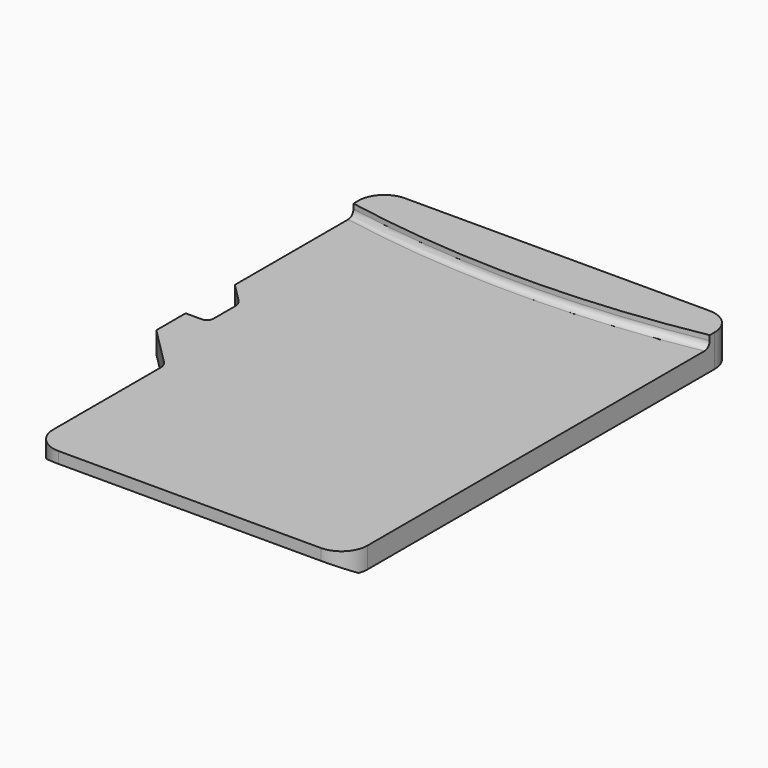
from build123d import *

# Parameters (mm, degrees)
F0_W      = 11
F0_H      = 15
F1_DEPTH  = 1
F3_DEPTH  = 0.35
F5_DEPTH  = 0.65
F6_R      = 0.2
F7_R      = 0.4
F8_R      = 0.2
F9_R      = 0.4
F11_DEPTH = 9.7
F12_R     = 0.8


with BuildPart() as f1:
    # F0 (on Top) → F1 (new body)
    with BuildSketch(Plane.XY):
        with Locations((5.5, 7.5)):
            Rectangle(F0_W, F0_H)
    extrude(amount=F1_DEPTH)

    # F2 (on face) → F3 (cut)
    with BuildSketch(Plane.XY.offset(1)):
        with BuildLine():
            Line((0, 14.0084757939), (0, 0))
            Line((0, 0), (11, 0))
            Line((11, 0), (11, 14.0084757939))
            ThreePointArc((11, 14.0084757939), (5.5, 13.5), (0, 14.0084757939))
        make_face()
    extrude(amount=-F3_DEPTH, mode=Mode.SUBTRACT)

    # F4 (on face) → F5 (cut, through all)
    with BuildSketch(Plane.XY.offset(0.65)):
        Polygon((0, 0), (1.3, 0), (1.3, 5.1), (0, 6.4), align=None)
        Polygon((0, 9.4313708499), (0, 7.5313708499), (0.7, 7.5313708499), (0.7, 8.7313708499), align=None)
    extrude(amount=-F5_DEPTH, mode=Mode.SUBTRACT)

    # F6
    f6_edges = [f1.edges().sort_by_distance(p)[0] for p in [
        (0.7, 7.531371, 0.325),
    ]]
    fillet(f6_edges, radius=F6_R)

    # F7
    f7_edges = [f1.edges().sort_by_distance(p)[0] for p in [
        (0.7, 8.731371, 0.325),
    ]]
    fillet(f7_edges, radius=F7_R)

    # F8
    f8_edges = [f1.edges().sort_by_distance(p)[0] for p in [
        (5.5, 13.5, 0.65),
    ]]
    fillet(f8_edges, radius=F8_R)

    # F9
    f9_edges = [f1.edges().sort_by_distance(p)[0] for p in [
        (1.3, 5.1, 0.325),
    ]]
    fillet(f9_edges, radius=F9_R)

    # F10 (on face) → F11 (cut, through all)
    with BuildSketch(Plane.YZ.offset(11)):
        Polygon((0.52, 0), (0, 0.3), (0, 0), align=None)
    extrude(amount=-F11_DEPTH, mode=Mode.SUBTRACT)

    # F12
    f12_edges = [f1.edges().sort_by_distance(p)[0] for p in [
        (11, 0, 0.475),
        (1.3, 0, 0.475),
        (0, 15, 0.5),
        (11, 15, 0.5),
    ]]
    fillet(f12_edges, radius=F12_R)


solid = f1.part
